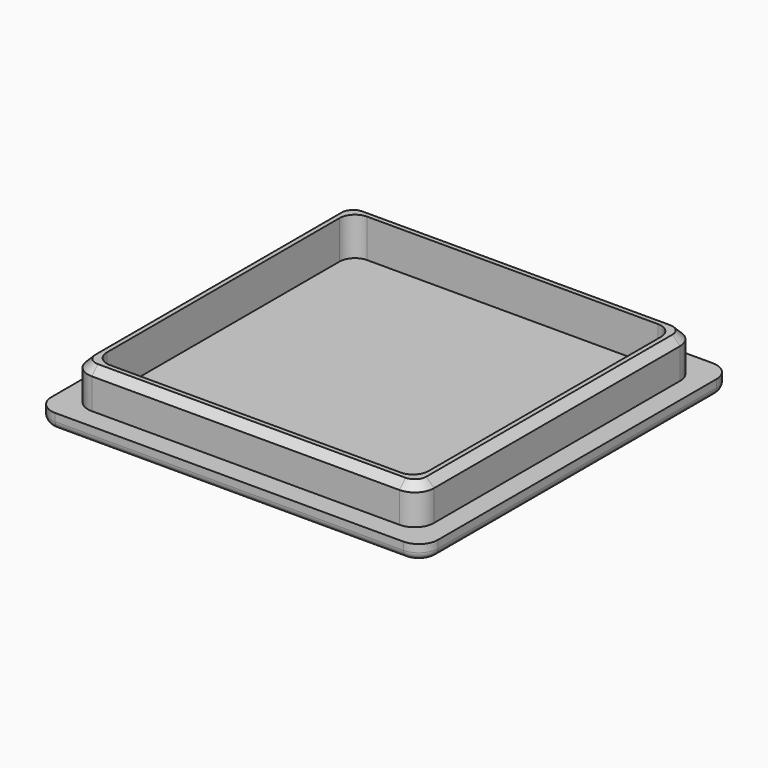
from build123d import *

# Parameters (mm, degrees)
F0_W     = 50.5
F0_H     = 50.5
F1_DEPTH = 2
F2_W     = 45.2
F2_H     = 45.2
F3_DEPTH = 5
F4_W     = 42
F4_H     = 42
F5_DEPTH = 5
F6_R     = 2.5
F7_R     = 2
F8_SIZE  = 1
F9_R     = 1


with BuildPart() as f1:
    # F0 (on Top) → F1 (new body)
    with BuildSketch(Plane.XY):
        Rectangle(F0_W, F0_H)
    extrude(amount=F1_DEPTH)

    # F2 (on face) → F3 (join)
    with BuildSketch(Plane.XY.offset(2)):
        Rectangle(F2_W, F2_H)
    extrude(amount=F3_DEPTH)

    # F4 (on face) → F5 (cut, through all)
    with BuildSketch(Plane.XY.offset(2)):
        Rectangle(F4_W, F4_H)
    extrude(amount=F5_DEPTH, mode=Mode.SUBTRACT)

    # F6
    f6_edges = [f1.edges().sort_by_distance(p)[0] for p in [
        (-25.25, 25.25, 1),
        (-25.25, -25.25, 1),
        (25.25, -25.25, 1),
        (25.25, 25.25, 1),
        (-22.6, 22.6, 4.5),
        (-22.6, -22.6, 4.5),
        (22.6, -22.6, 4.5),
        (22.6, 22.6, 4.5),
    ]]
    fillet(f6_edges, radius=F6_R)

    # F7
    f7_edges = [f1.edges().sort_by_distance(p)[0] for p in [
        (-21, 21, 4.5),
        (21, 21, 4.5),
        (21, -21, 4.5),
        (-21, -21, 4.5),
    ]]
    fillet(f7_edges, radius=F7_R)

    # F8
    f8_edges = [f1.edges().sort_by_distance(p)[0] for p in [
        (-22.6, 0, 7),
    ]]
    chamfer(f8_edges, length=F8_SIZE)

    # F9
    f9_edges = [f1.edges().sort_by_distance(p)[0] for p in [
        (0, 25.25, 0),
    ]]
    fillet(f9_edges, radius=F9_R)


solid = f1.part
